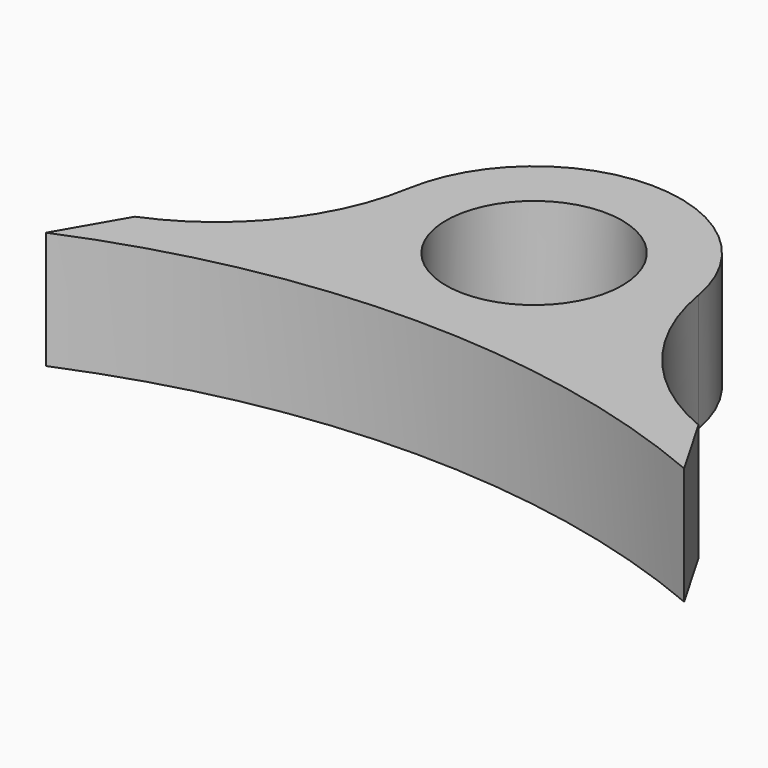
from build123d import *

# Parameters (mm, degrees)
F0_R     = 4.7625
F1_DEPTH = 6.35


with BuildPart() as f1:
    # F0 (on Top) → F1 (new body)
    with BuildSketch(Plane.XY):
        with BuildLine():
            ThreePointArc((-17.251716, -11.421895), (0, -7.9375), (17.251716, -11.421895))
            Line((17.251716, -11.421895), (15.24, -7.9375))
            ThreePointArc((15.24, -7.9375), (10.333337, -4.263981), (7.825462, 1.32893))
            ThreePointArc((7.825462, 1.32893), (0, 7.9375), (-7.825462, 1.32893))
            ThreePointArc((-7.825462, 1.32893), (-10.333337, -4.263981), (-15.24, -7.9375))
            Line((-15.24, -7.9375), (-17.251716, -11.421895))
        make_face()
        Circle(F0_R, mode=Mode.SUBTRACT)
    extrude(amount=F1_DEPTH)


solid = f1.part
